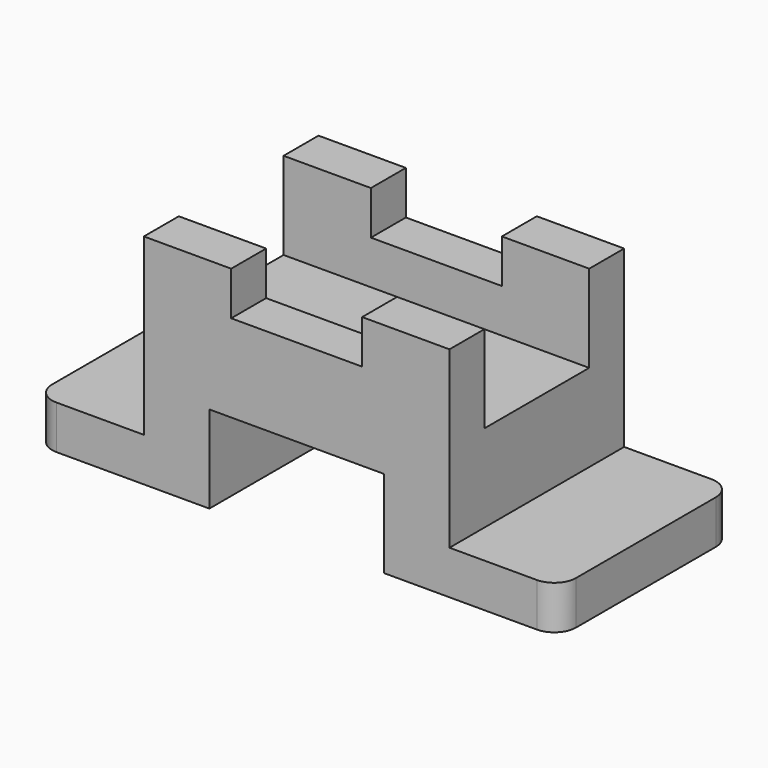
from build123d import *

# Parameters (mm, degrees)
F0_W     = 25
F0_H     = 10
F1_DEPTH = 60
F2_R     = 5
F3_DEPTH = 35
F7_DEPTH = 50


with BuildPart() as f1:
    # F0 (on Right) → F1 (new body)
    with BuildSketch(Plane.YZ):
        with Locations((12.5, 5)):
            Rectangle(F0_W, F0_H)
    extrude(amount=F1_DEPTH)

    # F2
    f2_edges = [f1.edges().sort_by_distance(p)[0] for p in [
        (60, 25, 5),
    ]]
    fillet(f2_edges, radius=F2_R)

    # F0 (on Right) → F3 (join)
    with BuildSketch(Plane.YZ):
        Polygon((0, 30), (0, 10), (25, 10), (25, 50), (15, 50), (15, 30), align=None)
    extrude(amount=F3_DEPTH)

    # F4: F1 across plane


with BuildPart() as f1_1:
    add(f1.part)
    add(f1.part.mirror(Plane.YZ))

    # F5: F1 across plane


with BuildPart() as f1_2:
    add(f1_1.part)
    add(f1_1.part.mirror(Plane.XZ))

    # F6 (on face) → F7 (cut)
    with BuildSketch(Plane.XZ.offset(25)):
        Polygon((-20, 0), (0, 0), (20, 0), (20, 20), (-20, 20), align=None)
        Polygon((15, 40), (15, 50), (0, 50), (-15, 50), (-15, 40), align=None)
    extrude(amount=-F7_DEPTH, mode=Mode.SUBTRACT)


solid = f1_2.part
